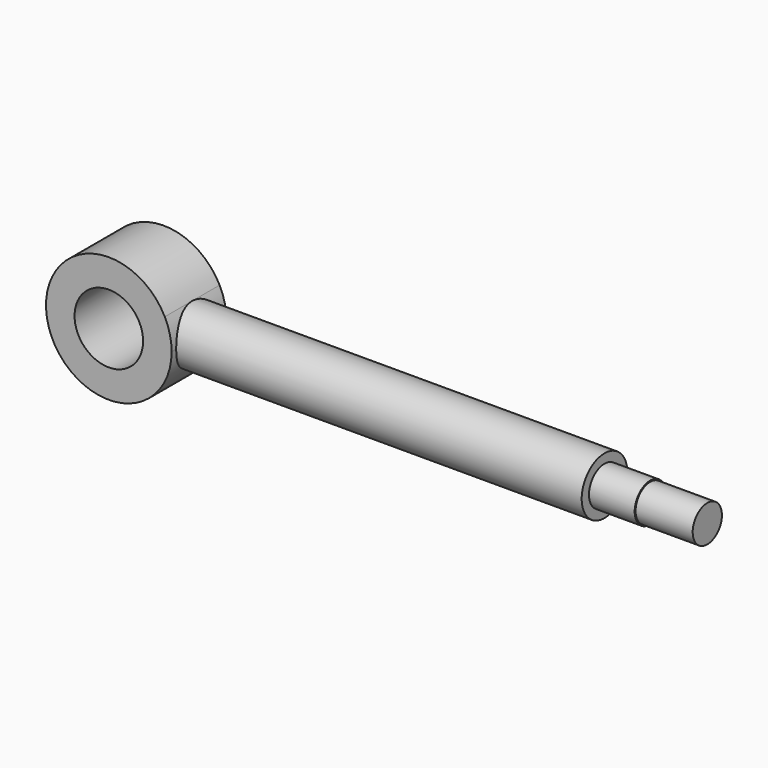
from build123d import *

# Parameters (mm, degrees)
F0_R     = 15
F3_DEPTH = 15


with BuildPart() as f2:
    # F0 (on Front) → F2 (revolve)
    with BuildSketch(Plane.XZ):
        with BuildLine():
            ThreePointArc((24.494897, 12.5), (26.738172, 6.428076), (27.5, 0))
            Line((27.5, 0), (250, 0))
            Line((250, 0), (250, 8))
            Line((250, 8), (225, 8))
            Line((225, 8), (225, 8.5))
            Line((225, 8.5), (205, 8.5))
            Line((205, 8.5), (205, 12.5))
            Line((205, 12.5), (24.494897, 12.5))
        make_face()
    revolve(axis=Axis((125.488594, 0, 0), (1, 0, 0)))

    # F0 (on Front) → F3 (join, symmetric)
    with BuildSketch(Plane.XZ):
        with BuildLine():
            ThreePointArc((24.494897, 12.5), (-26.738172, -6.428076), (27.5, 0))
            ThreePointArc((27.5, 0), (26.738172, 6.428076), (24.494897, 12.5))
        make_face()
        Circle(F0_R, mode=Mode.SUBTRACT)
    extrude(amount=F3_DEPTH, both=True)


solid = f2.part
